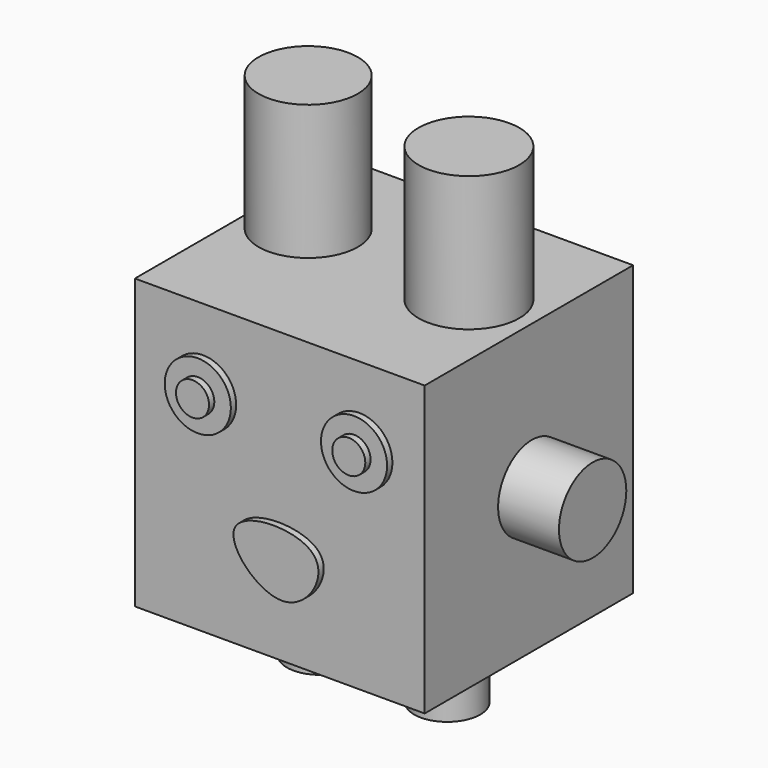
from build123d import *

# Parameters (mm, degrees)
F0_W      = 111.3092452288
F0_H      = 110.8992248774
F1_DEPTH  = 100.076
F2_R      = 19.073919737
F2_R_2    = 19.3546495163
F3_DEPTH  = 51.816
F4_R      = 12.7
F4_R_2    = 6.35
F5_DEPTH  = 2.54
F6_DEPTH  = 5.08
F8_DEPTH  = 2.54
F10_R     = 14.0521867963
F11_DEPTH = 20.066
F12_R     = 16.1662209707
F13_DEPTH = 23.368
F14_R     = 12.7
F15_DEPTH = 25.4


with BuildPart() as f1:
    # F0 (on Front) → F1 (new body)
    with BuildSketch(Plane.XZ):
        Rectangle(F0_W, F0_H)
    extrude(amount=F1_DEPTH)

    # F2 (on face) → F3 (join)
    with BuildSketch(Plane.XY.offset(55.4496124387)):
        with Locations((-35.2833792567, -42.3366203904)):
            Circle(F2_R)
        with Locations((31.1419349164, -48.2057631016)):
            Circle(F2_R_2)
    extrude(amount=F3_DEPTH)

    # F4 (on face) → F5 (join)
    with BuildSketch(Plane.XZ.offset(100.076)):
        with Locations((-29.463622719, 25.3433045)):
            Circle(F4_R)
        with Locations((-29.463622719, 25.3433045)):
            Circle(F4_R_2, mode=Mode.SUBTRACT)
        with Locations((30.5558927357, 25.3433045)):
            Circle(F4_R)
        with Locations((30.5558927357, 25.3433045)):
            Circle(F4_R_2, mode=Mode.SUBTRACT)
    extrude(amount=F5_DEPTH)

    # F6 (add): faces of the model
    f6_faces = [f1.faces().sort_by_distance(p)[0] for p in [
        (-29.463622719, -100.076, 25.3433045),
        (30.5558927357, -100.076, 25.3433045),
    ]]
    extrude(f6_faces, amount=F6_DEPTH)

    # F7 (on face) → F8 (join)
    with BuildSketch(Plane.XZ.offset(100.076)):
        with BuildLine():
            add(Edge.make_bspline(
                [(-15.1932500303, -14.5297981799), (-11.5570264912, -7.3093204863), (28.4939557063, -6.8955534703), (4.9116646059, -45.832072352), (-18.5883527484, -21.2714803619), (-15.1932500303, -14.5297981799)],
                knots=[0, 0, 0, 0, 0.3589682542, 0.6648352109, 1, 1, 1, 1], degree=3))
        make_face()
    extrude(amount=F8_DEPTH)

    # F10 (on face) → F11 (join)
    with BuildSketch(Plane(origin=(-55.6546226144, 0, 0), x_dir=(0, -1, 0), z_dir=(-1, 0, 0))):
        with Locations((48.5344566405, 0)):
            Circle(F10_R)
    extrude(amount=F11_DEPTH)

    # F12 (on face) → F13 (join)
    with BuildSketch(Plane.YZ.offset(55.6546226144)):
        with Locations((-48.6368350685, 0)):
            Circle(F12_R)
    extrude(amount=F13_DEPTH)

    # F14 (on face) → F15 (join)
    with BuildSketch(Plane(origin=(0, 0, -55.4496124387), x_dir=(1, 0, 0), z_dir=(0, 0, -1))):
        with Locations((-22.938253358, 52.1185323596)):
            Circle(F14_R)
        with Locations((25.9563419968, 52.1185323596)):
            Circle(F14_R)
    extrude(amount=F15_DEPTH)


solid = f1.part
